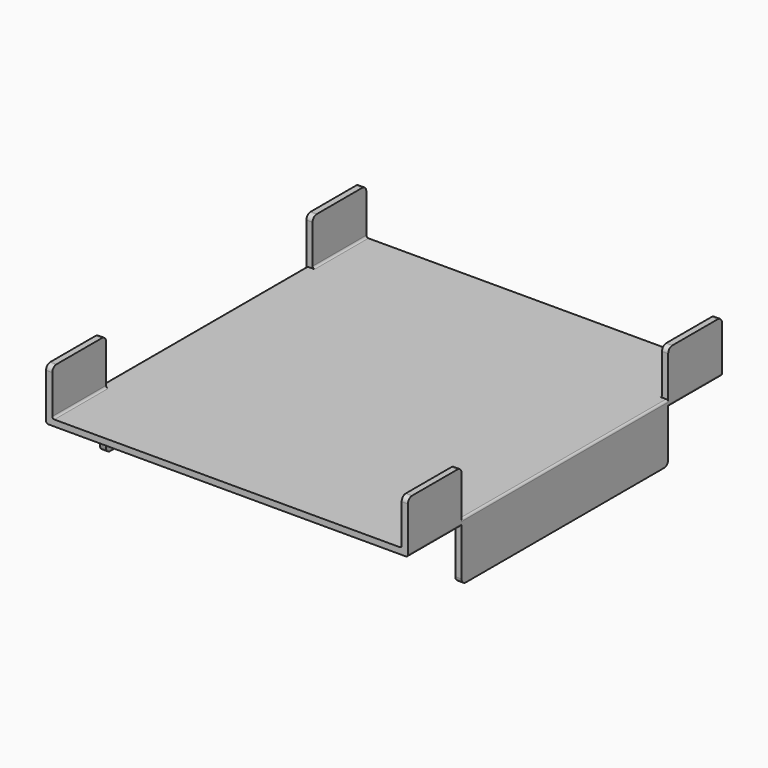
from build123d import *

# Parameters (mm, degrees)
F0_W     = 6
F0_H     = 44.3611480296
F1_DEPTH = 190
F3_DEPTH = 500
F4_W     = 65
F4_H     = 50
F5_DEPTH = 500
F6_R     = 2
F7_R     = 5


with BuildPart() as f1:
    # F0 (on Front) → F1 (new body, symmetric)
    with BuildSketch(Plane.XZ):
        Polygon((169.1134991124, 0), (0, 0), (-169.1134991124, 0), (-175.1134991124, 0), (-175.1134991124, -56), (-169.1134991124, -56), (-169.1134991124, -6), (0, -6), (169.1134991124, -6), (169.1134991124, -56), (175.1134991124, -56), (175.1134991124, 0), (175.1134991124, 44.3611480296), (169.1134991124, 44.3611480296), align=None)
        with Locations((-172.1134991124, 22.1805740148)):
            Rectangle(F0_W, F0_H)
    extrude(amount=F1_DEPTH, both=True)

    # F2 (on face) → F3 (cut)
    with BuildSketch(Plane.YZ.offset(175.1134991124)):
        Polygon((-125, 0), (0, 0), (125, 0), (125, 44.3611480296), (-125, 44.3611480296), align=None)
        Polygon((-125, 0), (0, 0), (125, 0), (125, 44.3611480296), (-125, 44.3611480296), align=None)
    extrude(amount=-F3_DEPTH, mode=Mode.SUBTRACT)

    # F4 (on face) → F5 (cut)
    with BuildSketch(Plane(origin=(-175.1134991124, 0, 0), x_dir=(0, -1, 0), z_dir=(-1, 0, 0))):
        with Locations((-157.5, -31)):
            Rectangle(F4_W, F4_H)
        with Locations((157.5, -31)):
            Rectangle(F4_W, F4_H)
    extrude(amount=-F5_DEPTH, mode=Mode.SUBTRACT)

    # F6
    f6_edges = [f1.edges().sort_by_distance(p)[0] for p in [
        (169.113499, 157.5, 0),
        (169.113499, -157.5, 0),
        (175.113499, 0, 0),
        (169.113499, 0, -6),
        (175.113499, -157.5, -6),
        (175.113499, 157.5, -6),
        (-169.113499, 157.5, 0),
        (-169.113499, -157.5, 0),
        (-175.113499, 0, 0),
        (-175.113499, -157.5, -6),
        (-169.113499, 0, -6),
        (-175.113499, 157.5, -6),
    ]]
    fillet(f6_edges, radius=F6_R)

    # F7
    f7_edges = [f1.edges().sort_by_distance(p)[0] for p in [
        (172.113499, -190, 44.361148),
        (172.113499, -125, 44.361148),
        (-172.113499, -190, 44.361148),
        (-172.113499, -125, 44.361148),
        (-172.113499, 190, 44.361148),
        (-172.113499, 125, 44.361148),
        (172.113499, 125, 44.361148),
        (172.113499, 190, 44.361148),
        (172.113499, 125, -56),
        (172.113499, -125, -56),
        (-172.113499, -125, -56),
        (-172.113499, 125, -56),
    ]]
    fillet(f7_edges, radius=F7_R)


solid = f1.part
